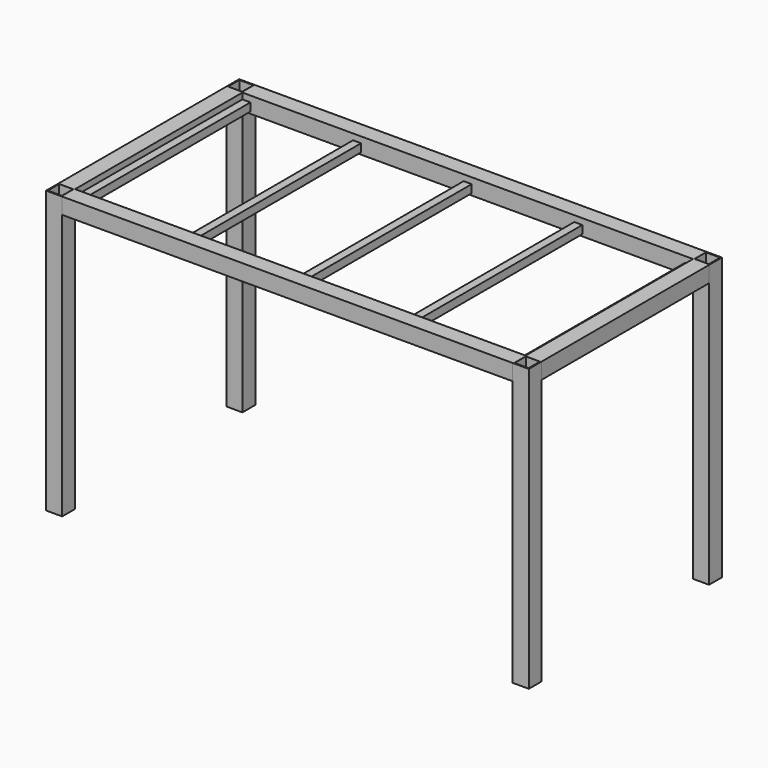
from build123d import *

# Parameters (mm, degrees)
F0_W     = 50.8
F0_H     = 50.8
F1_DEPTH = 889
F2_T     = -3.175
F2_2_T   = -3.175
F2_3_T   = -3.175
F2_4_T   = -3.175
F3_W     = 50.8
F3_H     = 50.8
F4_DEPTH = 660.4
F5_W     = 50.8
F5_H     = 50.8
F6_DEPTH = 1422.4
F7_W     = 25.4
F7_H     = 25.4
F8_DEPTH = 660.4


with BuildPart() as f1:
    # F0 (on Top) → F1 (new body)
    with BuildSketch(Plane.XY):
        with Locations((-736.6, 355.6)):
            Rectangle(F0_W, F0_H)
    extrude(amount=F1_DEPTH)

    # F2#2
    f2_2_openings = [f1.faces().sort_by_distance(p)[0] for p in [
        (-736.6, 355.6, 889),
    ]]
    offset(amount=F2_2_T, openings=f2_2_openings)


with BuildPart() as f1b:
    # F0 (on Top) → F1, piece 2 (new body)
    with BuildSketch(Plane.XY):
        with Locations((736.6, 355.6)):
            Rectangle(F0_W, F0_H)
    extrude(amount=F1_DEPTH)

    # F2#3
    f2_3_openings = [f1b.faces().sort_by_distance(p)[0] for p in [
        (736.6, 355.6, 889),
    ]]
    offset(amount=F2_3_T, openings=f2_3_openings)


with BuildPart() as f1c:
    # F0 (on Top) → F1, piece 3 (new body)
    with BuildSketch(Plane.XY):
        with Locations((736.6, -355.6)):
            Rectangle(F0_W, F0_H)
    extrude(amount=F1_DEPTH)

    # F2#4
    f2_4_openings = [f1c.faces().sort_by_distance(p)[0] for p in [
        (736.6, -355.6, 889),
    ]]
    offset(amount=F2_4_T, openings=f2_4_openings)


with BuildPart() as f1d:
    # F0 (on Top) → F1, piece 4 (new body)
    with BuildSketch(Plane.XY):
        with Locations((-736.6, -355.6)):
            Rectangle(F0_W, F0_H)
    extrude(amount=F1_DEPTH)

    # F2
    f2_openings = [f1d.faces().sort_by_distance(p)[0] for p in [
        (-736.6, -355.6, 889),
    ]]
    offset(amount=F2_T, openings=f2_openings)


with BuildPart() as f4:
    # F3 (on face) → F4 (new body)
    with BuildSketch(Plane.XZ.offset(-330.2)):
        with Locations((-736.6, 863.6)):
            Rectangle(F3_W, F3_H)
    extrude(amount=F4_DEPTH)


with BuildPart() as f4b:
    # F3 (on face) → F4, piece 2 (new body)
    with BuildSketch(Plane.XZ.offset(-330.2)):
        with Locations((736.6, 863.6)):
            Rectangle(F3_W, F3_H)
    extrude(amount=F4_DEPTH)


with BuildPart() as f6:
    # F5 (on face) → F6 (new body)
    with BuildSketch(Plane(origin=(711.2, 0, 0), x_dir=(0, -1, 0), z_dir=(-1, 0, 0))):
        with Locations((-355.6, 863.6)):
            Rectangle(F5_W, F5_H)
    extrude(amount=F6_DEPTH)


with BuildPart() as f6b:
    # F5 (on face) → F6, piece 2 (new body)
    with BuildSketch(Plane(origin=(711.2, 0, 0), x_dir=(0, -1, 0), z_dir=(-1, 0, 0))):
        with Locations((355.6, 863.6)):
            Rectangle(F5_W, F5_H)
    extrude(amount=F6_DEPTH)


with BuildPart() as f8:
    # F7 (on face) → F8 (new body)
    with BuildSketch(Plane.XZ.offset(-330.2)):
        with Locations((-349.25, 857.25)):
            Rectangle(F7_W, F7_H)
    extrude(amount=F8_DEPTH)


with BuildPart() as f8b:
    # F7 (on face) → F8, piece 2 (new body)
    with BuildSketch(Plane.XZ.offset(-330.2)):
        with Locations((0, 857.25)):
            Rectangle(F7_W, F7_H)
    extrude(amount=F8_DEPTH)


with BuildPart() as f8c:
    # F7 (on face) → F8, piece 3 (new body)
    with BuildSketch(Plane.XZ.offset(-330.2)):
        with Locations((349.25, 857.25)):
            Rectangle(F7_W, F7_H)
    extrude(amount=F8_DEPTH)


with BuildPart() as f8d:
    # F7 (on face) → F8, piece 4 (new body)
    with BuildSketch(Plane.XZ.offset(-330.2)):
        with Locations((-698.5, 857.25)):
            Rectangle(F7_W, F7_H)
    extrude(amount=F8_DEPTH)


with BuildPart() as f8e:
    # F7 (on face) → F8, piece 5 (new body)
    with BuildSketch(Plane.XZ.offset(-330.2)):
        with Locations((698.5, 857.25)):
            Rectangle(F7_W, F7_H)
    extrude(amount=F8_DEPTH)


solid = Compound([f1.part, f1b.part, f1c.part, f1d.part, f4.part, f4b.part, f6.part, f6b.part, f8.part, f8b.part, f8c.part, f8d.part, f8e.part])
